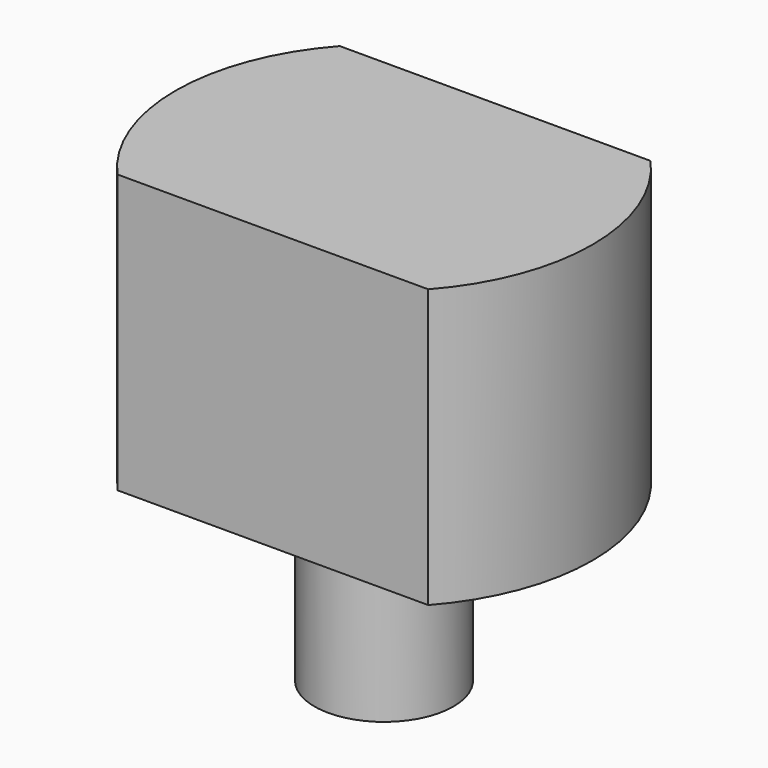
from build123d import *

# Parameters (mm, degrees)
F1_DEPTH = 20
F2_R     = 10
F3_DEPTH = 25


with BuildPart() as f1:
    # F0 (on Top) → F1 (new body, symmetric)
    with BuildSketch(Plane.XY):
        with BuildLine():
            Line((22.36068, 20), (-22.36068, 20))
            ThreePointArc((-22.36068, 20), (-30, 0), (-22.36068, -20))
            Line((-22.36068, -20), (22.36068, -20))
            ThreePointArc((22.36068, -20), (30, 0), (22.36068, 20))
        make_face()
    extrude(amount=F1_DEPTH, both=True)

    # F2 (on face) → F3 (join)
    with BuildSketch(Plane(origin=(0, 0, -20), x_dir=(1, 0, 0), z_dir=(0, 0, -1))):
        Circle(F2_R)
    extrude(amount=F3_DEPTH)


solid = f1.part
